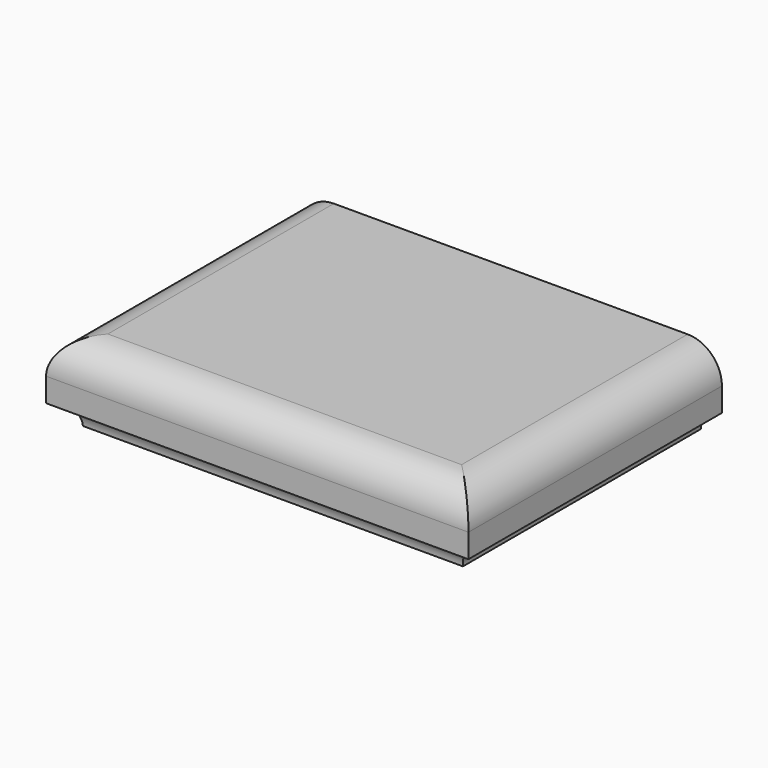
from build123d import *

# Parameters (mm, degrees)
F4_DEPTH = 152.4
F1_R     = 10.16
F2_DEPTH = 254
F3_R     = 16.51
F5_T     = -5.08


with BuildPart() as f4:
    # F0 (on Front) → F4 (new body)
    with BuildSketch(Plane.XZ):
        with BuildLine():
            Line((-193.04, 0), (-10.16, 0))
            ThreePointArc((-10.16, 0), (-7.184205, 7.184205), (0, 10.16))
            Line((0, 10.16), (0, 38.1))
            Line((0, 38.1), (-203.2, 38.1))
            Line((-203.2, 38.1), (-203.2, 10.16))
            ThreePointArc((-203.2, 10.16), (-196.015795, 7.184205), (-193.04, 0))
        make_face()
    extrude(amount=F4_DEPTH)

    # F1 (on face) → F2 (cut)
    with BuildSketch(Plane.YZ):
        with Locations((-153.180798, 0)):
            Circle(F1_R)
    extrude(amount=-F2_DEPTH, mode=Mode.SUBTRACT)

    # F3
    f3_edges = [f4.edges().sort_by_distance(p)[0] for p in [
        (-101.6, -152.4, 38.1),
        (-203.2, -76.2, 38.1),
        (0, -76.2, 38.1),
    ]]
    fillet(f3_edges, radius=F3_R)

    # F5
    f5_openings = [f4.faces().sort_by_distance(p)[0] for p in [
        (-101.6, 0, 19.129387),
    ]]
    offset(amount=F5_T, openings=f5_openings)


solid = f4.part
